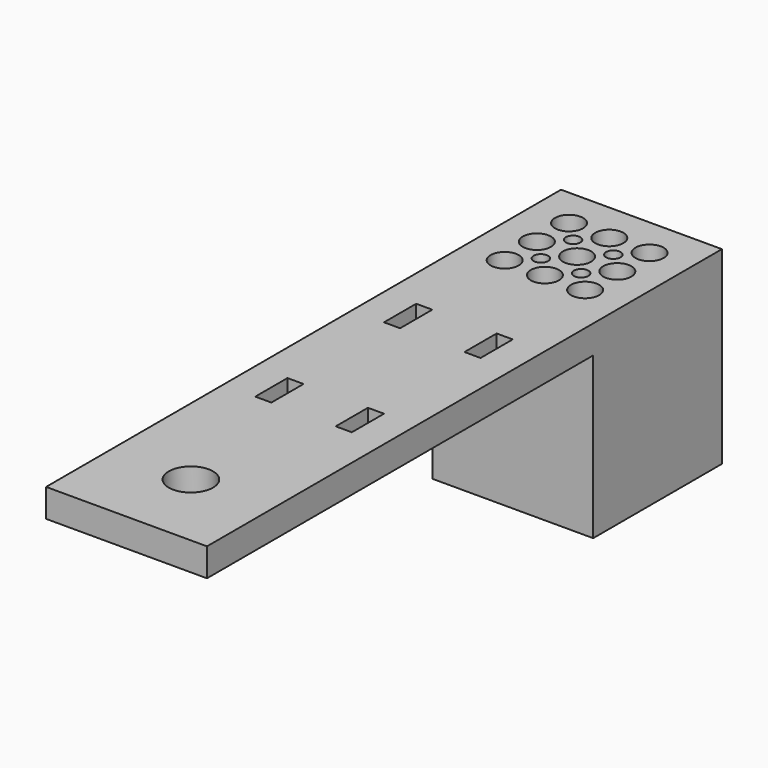
from build123d import *

# Parameters (mm, degrees)
F0_W     = 20
F0_H     = 20
F1_DEPTH = 20
F2_W     = 20
F2_H     = 3.5
F3_DEPTH = 80
F4_R     = 2.75
F4_W     = 2
F4_H     = 5
F5_DEPTH = 3.5
F6_R     = 1.75
F6_R_2   = 0.9
F7_DEPTH = 23.5


with BuildPart() as f1:
    # F0 (on Top) → F1 (new body)
    with BuildSketch(Plane.XY):
        with Locations((10, 10)):
            Rectangle(F0_W, F0_H)
    extrude(amount=F1_DEPTH)

    # F2 (on face) → F3 (join)
    with BuildSketch(Plane(origin=(0, 20, 0), x_dir=(-1, 0, 0), z_dir=(0, 1, 0))):
        with Locations((-10, 21.75)):
            Rectangle(F2_W, F2_H)
    extrude(amount=-F3_DEPTH)

    # F4 (on face) → F5 (cut, through all)
    with BuildSketch(Plane.XY.offset(23.5)):
        with Locations((10, -50)):
            Circle(F4_R)
        with Locations((5, -10)):
            Rectangle(F4_W, F4_H)
        with Locations((5, -30)):
            Rectangle(F4_W, F4_H)
        with Locations((15, -10)):
            Rectangle(F4_W, F4_H)
        with Locations((15, -30)):
            Rectangle(F4_W, F4_H)
    extrude(amount=-F5_DEPTH, mode=Mode.SUBTRACT)

    # F6 (on face) → F7 (cut, through all)
    with BuildSketch(Plane.XY.offset(23.5)):
        with Locations((5, 15)):
            Circle(F6_R)
        with Locations((10, 15)):
            Circle(F6_R)
        with Locations((15, 15)):
            Circle(F6_R)
        with Locations((5, 10)):
            Circle(F6_R)
        with Locations((10, 10)):
            Circle(F6_R)
        with Locations((15, 10)):
            Circle(F6_R)
        with Locations((5, 5)):
            Circle(F6_R)
        with Locations((10, 5)):
            Circle(F6_R)
        with Locations((15, 5)):
            Circle(F6_R)
        with Locations((7.5, 12.5)):
            Circle(F6_R_2)
        with Locations((7.5, 7.5)):
            Circle(F6_R_2)
        with Locations((12.5, 12.5)):
            Circle(F6_R_2)
        with Locations((12.5, 7.5)):
            Circle(F6_R_2)
    extrude(amount=-F7_DEPTH, mode=Mode.SUBTRACT)


solid = f1.part
